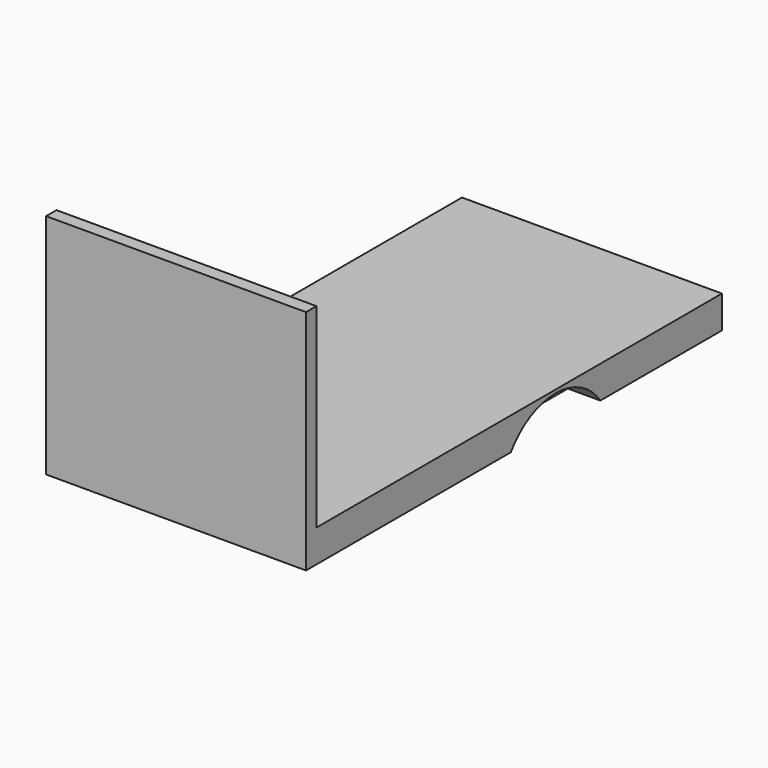
from build123d import *

# Parameters (mm, degrees)
F0_W     = 50.8
F0_H     = 101.6
F1_DEPTH = 6.35
F2_W     = 50.8
F2_H     = 2.54
F3_DEPTH = 38.1
F6_DEPTH = 6.35
F7_DEPTH = 6.35


with BuildPart() as f1:
    # F0 (on Top) → F1 (new body)
    with BuildSketch(Plane.XY):
        Rectangle(F0_W, F0_H)
    extrude(amount=F1_DEPTH)

    # F2 (on face) → F3 (join)
    with BuildSketch(Plane.XY.offset(6.35)):
        with Locations((0, -49.53)):
            Rectangle(F2_W, F2_H)
    extrude(amount=F3_DEPTH)

    # F5 (on face) → F6 (cut)
    with BuildSketch(Plane.YZ.offset(25.4)):
        with BuildLine():
            Line((-0.7833918417, 0), (21.1033918417, 0))
            ThreePointArc((21.1033918417, 0), (10.16, 5.715), (-0.7833918417, 0))
        make_face()
    extrude(amount=-F6_DEPTH, mode=Mode.SUBTRACT)

    # F4 (on face) → F7 (cut)
    with BuildSketch(Plane(origin=(-25.4, 0, 0), x_dir=(0, -1, 0), z_dir=(-1, 0, 0))):
        with BuildLine():
            Line((-21.1033918417, 0), (0.7833918417, 0))
            ThreePointArc((0.7833918417, 0), (-10.16, 5.715), (-21.1033918417, 0))
        make_face()
    extrude(amount=-F7_DEPTH, mode=Mode.SUBTRACT)


solid = f1.part
